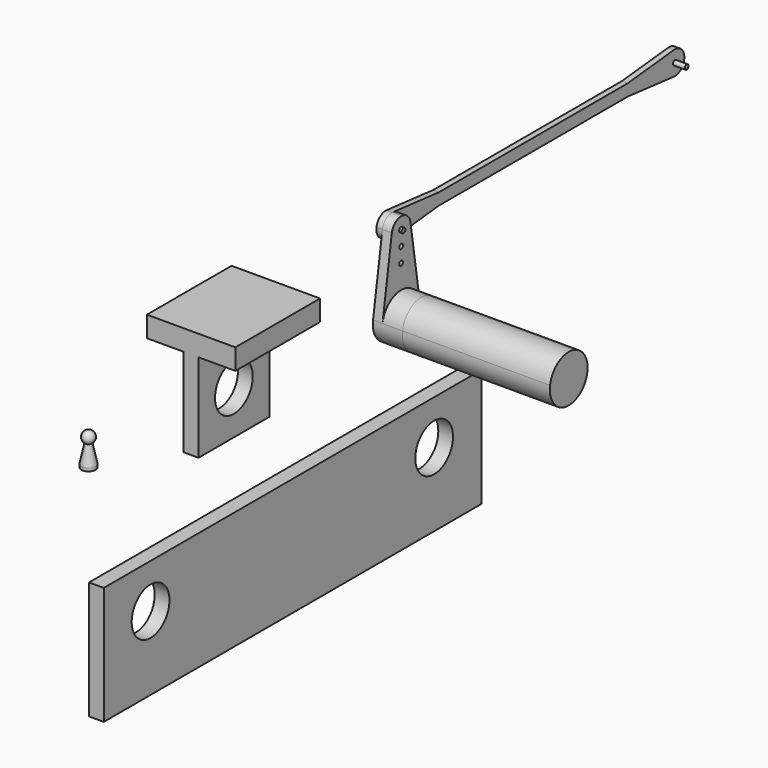
from build123d import *

# Parameters (mm, degrees)
F0_R      = 0.4
F0_R_2    = 0.425
F1_DEPTH  = 1.6
F0_R_3    = 1.5
F2_DEPTH  = 5
F3_R      = 3.5
F3_R_2    = 1.5
F4_DEPTH  = 3
F5_DEPTH  = 1
F6_DEPTH  = 2
F8_DEPTH  = 30
F0_W      = 15
F0_H      = 15
F0_R_4    = 4
F10_DEPTH = 1.25
F11_DEPTH = 7.5
F0_W_2    = 80
F0_H_2    = 20
F12_DEPTH = 1.25


with BuildPart() as f1:
    # F0 (on Right) → F1 (new body)
    with BuildSketch(Plane.YZ):
        with BuildLine():
            ThreePointArc((-3.952379255, 0.6153846154), (0, 4), (3.952379255, 0.6153846154))
            Line((3.952379255, 0.6153846154), (2.3007241633, 11.2233315117))
            Line((2.3007241633, 11.2233315117), (0.2020410205, 11.0102313134))
            ThreePointArc((0.2020410205, 11.0102313134), (-1.451372652, 11.6239486111), (-1.9761896275, 13.3076923077))
            Line((-1.9761896275, 13.3076923077), (-3.952379255, 0.6153846154))
        make_face()
        with Locations((0, 8)):
            Circle(F0_R, mode=Mode.SUBTRACT)
        with Locations((0, 10.5)):
            Circle(F0_R, mode=Mode.SUBTRACT)
        with BuildLine():
            ThreePointArc((0.2020410289, 14.9897686857), (-1.2223935732, 14.5829573437), (-1.9761896275, 13.3076923077))
            ThreePointArc((-1.9761896275, 13.3076923077), (-1.451372652, 11.6239486111), (0.2020410205, 11.0102313134))
            ThreePointArc((0.2020410205, 11.0102313134), (1.4839275658, 11.6591200727), (2, 13))
            ThreePointArc((2, 13), (1.9940385221, 13.1543061001), (1.9761896275, 13.3076923077))
            ThreePointArc((1.9761896275, 13.3076923077), (1.376051392, 14.4513726491), (0.2020410289, 14.9897686857))
        make_face()
        with Locations((0, 13)):
            Circle(F0_R_2, mode=Mode.SUBTRACT)
        with BuildLine():
            Line((0.2020410205, 11.0102313134), (2.3007241633, 11.2233315117))
            Line((2.3007241633, 11.2233315117), (1.9761896275, 13.3076923077))
            ThreePointArc((1.9761896275, 13.3076923077), (1.9940385221, 13.1543061001), (2, 13))
            ThreePointArc((2, 13), (1.4839275658, 11.6591200727), (0.2020410205, 11.0102313134))
        make_face()
    extrude(amount=F1_DEPTH)

    # F0 (on Right) → F2 (join)
    with BuildSketch(Plane.YZ):
        with BuildLine():
            ThreePointArc((-3.952379255, 0.6153846154), (-0.3086122001, -3.9880770441), (4, 0))
            ThreePointArc((4, 0), (3.9880770441, 0.3086122001), (3.952379255, 0.6153846154))
            ThreePointArc((3.952379255, 0.6153846154), (0, 4), (-3.952379255, 0.6153846154))
        make_face()
        Circle(F0_R_3, mode=Mode.SUBTRACT)
    extrude(amount=F2_DEPTH)

    # F3 (on face) → F4 (cut)
    with BuildSketch(Plane.YZ.offset(5)):
        Circle(F3_R)
        Circle(F3_R_2, mode=Mode.SUBTRACT)
    extrude(amount=-F4_DEPTH, mode=Mode.SUBTRACT)


with BuildPart() as f5:
    # F0 (on Right) → F5 (new body)
    with BuildSketch(Plane.YZ):
        with BuildLine():
            ThreePointArc((10.8989794856, 13), (10.6409432699, 12.3295600379), (10, 12.0051156571))
            Line((10, 12.0051156571), (30, 12.0051156571))
            Line((30, 12.0051156571), (30, 13.9948843429))
            Line((30, 13.9948843429), (10, 13.9948843429))
            ThreePointArc((10, 13.9948843429), (10.6409432699, 13.6704399621), (10.8989794856, 13))
        make_face()
        with BuildLine():
            Line((1.9761896275, 13.3076923077), (2.3007241633, 11.2233315117))
            Line((2.3007241633, 11.2233315117), (10, 12.0051156571))
            ThreePointArc((10, 12.0051156571), (8.8989794856, 13), (10, 13.9948843429))
            Line((10, 13.9948843429), (0.2020410289, 14.9897686857))
            ThreePointArc((0.2020410289, 14.9897686857), (1.376051392, 14.4513726491), (1.9761896275, 13.3076923077))
        make_face()
        with BuildLine():
            ThreePointArc((0.2020410289, 14.9897686857), (-1.2223935732, 14.5829573437), (-1.9761896275, 13.3076923077))
            ThreePointArc((-1.9761896275, 13.3076923077), (-1.451372652, 11.6239486111), (0.2020410205, 11.0102313134))
            ThreePointArc((0.2020410205, 11.0102313134), (1.4839275658, 11.6591200727), (2, 13))
            ThreePointArc((2, 13), (1.9940385221, 13.1543061001), (1.9761896275, 13.3076923077))
            ThreePointArc((1.9761896275, 13.3076923077), (1.376051392, 14.4513726491), (0.2020410289, 14.9897686857))
        make_face()
        with Locations((0, 13)):
            Circle(F0_R_2, mode=Mode.SUBTRACT)
        with BuildLine():
            ThreePointArc((10, 13.9948843429), (8.8989794856, 13), (10, 12.0051156571))
            ThreePointArc((10, 12.0051156571), (10.6409432699, 12.3295600379), (10.8989794856, 13))
            ThreePointArc((10.8989794856, 13), (10.6409432699, 13.6704399621), (10, 13.9948843429))
        make_face()
        with BuildLine():
            Line((0.2020410205, 11.0102313134), (2.3007241633, 11.2233315117))
            Line((2.3007241633, 11.2233315117), (1.9761896275, 13.3076923077))
            ThreePointArc((1.9761896275, 13.3076923077), (1.9940385221, 13.1543061001), (2, 13))
            ThreePointArc((2, 13), (1.4839275658, 11.6591200727), (0.2020410205, 11.0102313134))
        make_face()
        with Locations((0, 13)):
            Circle(F0_R_2)
        with Locations((0, 13)):
            Circle(F0_R, mode=Mode.SUBTRACT)
        with Locations((0, 13)):
            Circle(F0_R)
    extrude(amount=-F5_DEPTH)

    # F0 (on Right) → F6 (join)
    with BuildSketch(Plane.YZ):
        with Locations((0, 13)):
            Circle(F0_R)
    extrude(amount=F6_DEPTH)

    # F7: F5 across face


with BuildPart() as f5_1:
    add(f5.part)
    add(f5.part.mirror(Plane(origin=(-0.5, 30, 13), x_dir=(-1, 0, 0), z_dir=(0, 1, 0))))


with BuildPart() as f8:
    # F0 (on Right) → F8 (new body)
    with BuildSketch(Plane.YZ):
        with BuildLine():
            ThreePointArc((-3.952379255, 0.6153846154), (-0.3086122001, -3.9880770441), (4, 0))
            ThreePointArc((4, 0), (3.9880770441, 0.3086122001), (3.952379255, 0.6153846154))
            ThreePointArc((3.952379255, 0.6153846154), (0, 4), (-3.952379255, 0.6153846154))
        make_face()
        Circle(F0_R_3, mode=Mode.SUBTRACT)
        Circle(F0_R_3)
    extrude(amount=F8_DEPTH)

    # F9: cut F1
    add(f1.part, mode=Mode.SUBTRACT)


with BuildPart() as f10:
    # F0 (on Right) → F10 (new body, symmetric)
    with BuildSketch(Plane.YZ):
        with Locations((-35.0044366717, 3.6218684912)):
            Rectangle(F0_W, F0_H)
        with Locations((-35.0044366717, 3.6218684912)):
            Circle(F0_R_4, mode=Mode.SUBTRACT)
    extrude(amount=F10_DEPTH, both=True)

    # F0 (on Right) → F11 (join, symmetric)
    with BuildSketch(Plane.YZ):
        Polygon((-42.5044366717, 14.636519365), (-42.5044366717, 11.1218684912), (-27.5044366717, 11.1218684912), (-24.5620086789, 11.1218684912), (-24.5620086789, 14.636519365), align=None)
    extrude(amount=F11_DEPTH, both=True)


with BuildPart() as f12:
    # F0 (on Right) → F12 (new body, symmetric)
    with BuildSketch(Plane.YZ):
        with Locations((-22.5715031475, -25.1345673949)):
            Rectangle(F0_W_2, F0_H_2)
        with Locations((-52.6573488116, -22.6345673949)):
            Circle(F0_R_4, mode=Mode.SUBTRACT)
        with Locations((7.4284968525, -22.6345673949)):
            Circle(F0_R_4, mode=Mode.SUBTRACT)
    extrude(amount=F12_DEPTH, both=True)


with BuildPart() as f13:
    # F0 (on Right) → F13 (revolve)
    with BuildSketch(Plane.YZ):
        with BuildLine():
            Line((-64.2478317022, 6.6713448353), (-64.2478317022, 8.6713448353))
            ThreePointArc((-64.2478317022, 8.6713448353), (-65.2099202037, 7.9440822829), (-64.7726268267, 6.820116266))
            ThreePointArc((-64.7726268267, 6.820116266), (-64.5205691498, 6.7092563338), (-64.2478317022, 6.6713448353))
        make_face()
        with BuildLine():
            ThreePointArc((-64.2478317022, 6.6713448353), (-64.5205691498, 6.7092563338), (-64.7726268267, 6.820116266))
            Line((-64.7726268267, 6.820116266), (-65.4493719339, 3.6713448353))
            Line((-65.4493719339, 3.6713448353), (-65.4493719339, 3.1371545047))
            Line((-65.4493719339, 3.1371545047), (-64.2478317022, 3.1371545047))
            Line((-64.2478317022, 3.1371545047), (-64.2478317022, 6.6713448353))
        make_face()
    revolve(axis=Axis((0, -64.2478317022, 3.5368323289), (0, 0, -1)))


solid = Compound([f1.part, f5_1.part, f8.part, f10.part, f12.part, f13.part])
